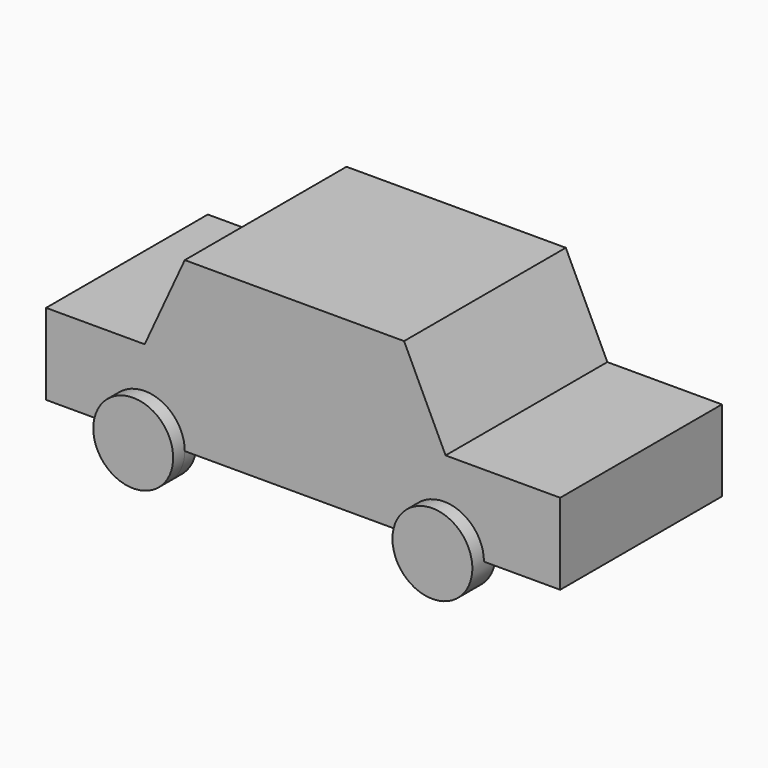
from build123d import *

# Parameters (mm, degrees)
F0_W     = 449.58
F0_H     = 176.784
F1_DEPTH = 70.866
F3_DEPTH = 12.7
F6_W     = 263.13141
F6_H     = 176.784
F7_DEPTH = 76.2
F9_DEPTH = 189.485


with BuildPart() as f1:
    # F0 (on Top) → F1 (new body)
    with BuildSketch(Plane.XY):
        with Locations((4.088245, -16.670767)):
            Rectangle(F0_W, F0_H)
    extrude(amount=F1_DEPTH)

    # F2 (on face) → F3 (join, symmetric)
    with BuildSketch(Plane.XZ.offset(105.062767)):
        with BuildLine():
            Line((-169.266755, 0), (-99.416755, 0))
            ThreePointArc((-99.416755, 0), (-134.341755, 34.925), (-169.266755, 0))
        make_face()
        with BuildLine():
            ThreePointArc((-169.266755, 0), (-134.341755, -34.925), (-99.416755, 0))
            Line((-99.416755, 0), (-169.266755, 0))
        make_face()
        with BuildLine():
            ThreePointArc((162.203245, 0), (127.278245, 34.925), (92.353245, 0))
            Line((92.353245, 0), (162.203245, 0))
        make_face()
        with BuildLine():
            Line((162.203245, 0), (92.353245, 0))
            ThreePointArc((92.353245, 0), (127.278245, -34.925), (162.203245, 0))
        make_face()
    extrude(amount=F3_DEPTH, both=True)

    # F5: F1 across plane


with BuildPart() as f1_1:
    add(f1.part)
    add(f1.part.mirror(Plane(origin=(5.13005, -16.670767, 38.250844), x_dir=(1, 0, 0), z_dir=(0, -1, 0))))

    # F6 (on face) → F7 (join)
    with BuildSketch(Plane.XY.offset(70.866)):
        with Locations((-2.902493, -16.670767)):
            Rectangle(F6_W, F6_H)
    extrude(amount=F7_DEPTH)

    # F8 (on face) → F9 (cut, through all)
    with BuildSketch(Plane.XZ.offset(105.062767)):
        Polygon((-134.468198, 147.066), (-134.468198, 70.866), (-99.416755, 147.066), align=None)
        Polygon((128.663212, 147.066), (92.353245, 147.066), (128.663212, 70.866), align=None)
    extrude(amount=-F9_DEPTH, mode=Mode.SUBTRACT)


solid = f1_1.part
